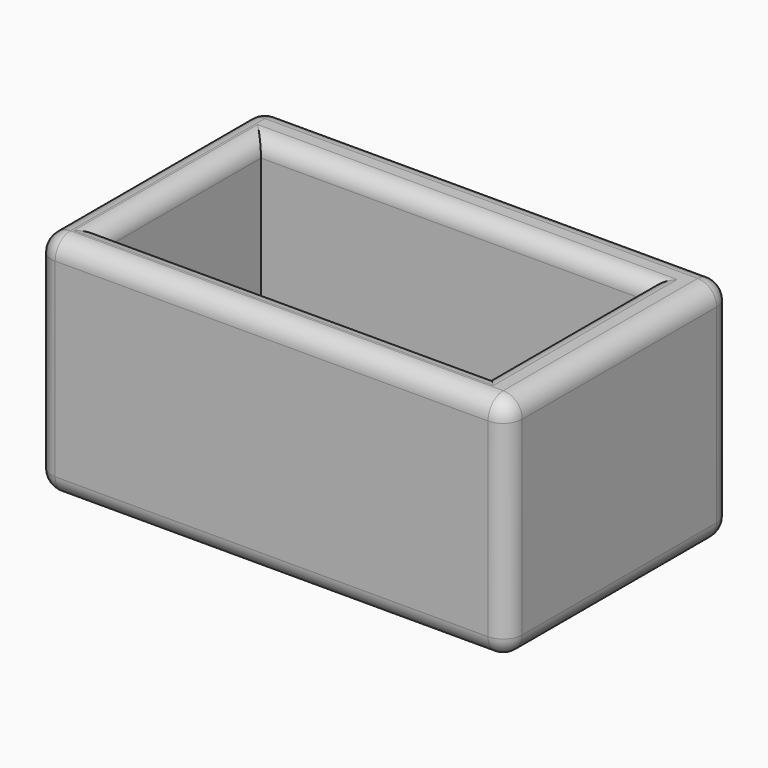
from build123d import *

# Parameters (mm, degrees)
BOX038_W     = 20.3
BOX038_H     = 10.3
BOX038_DEPTH = 300
BOX039_W     = 24.8
BOX039_H     = 14.8
BOX039_DEPTH = 12
FILLET019_R  = 1
FILLET020_R  = 0.9


with BuildPart() as cube_20x10_clone001:
    # Box038 → Box038 (new body)
    with BuildSketch(Plane.XY):
        with Locations((10.15, 5.15)):
            Rectangle(BOX038_W, BOX038_H)
    extrude(amount=BOX038_DEPTH)


with BuildPart() as cube_20x10_clone001_1:
    # Body012 placement: moved
    add(cube_20x10_clone001.part.moved(Location((2, 2, 2))))


with BuildPart() as profile_cap_outer_fillet:
    # Box039 → Box039 (new body)
    with BuildSketch(Plane.XY):
        with Locations((12.4, 7.4)):
            Rectangle(BOX039_W, BOX039_H)
    extrude(amount=BOX039_DEPTH)

    # Fillet019
    fillet019_edges = [profile_cap_outer_fillet.edges().sort_by_distance(p)[0] for p in [
        (0, 0, 6),
        (0, 7.4, 12),
        (0, 14.8, 6),
        (0, 7.4, 0),
        (24.8, 0, 6),
        (24.8, 7.4, 12),
        (24.8, 14.8, 6),
        (24.8, 7.4, 0),
        (12.4, 0, 0),
        (12.4, 0, 12),
        (12.4, 14.8, 0),
        (12.4, 14.8, 12),
    ]]
    fillet(fillet019_edges, radius=FILLET019_R)

    # Cut023012: cut cube 20x10 clone001
    add(cube_20x10_clone001_1.part, mode=Mode.SUBTRACT)

    # Fillet020
    fillet020_edges = [profile_cap_outer_fillet.edges().sort_by_distance(p)[0] for p in [
        (12.15, 2, 12),
        (22.3, 7.15, 12),
        (12.15, 12.3, 12),
        (2, 7.15, 12),
    ]]
    fillet(fillet020_edges, radius=FILLET020_R)


solid = profile_cap_outer_fillet.part
